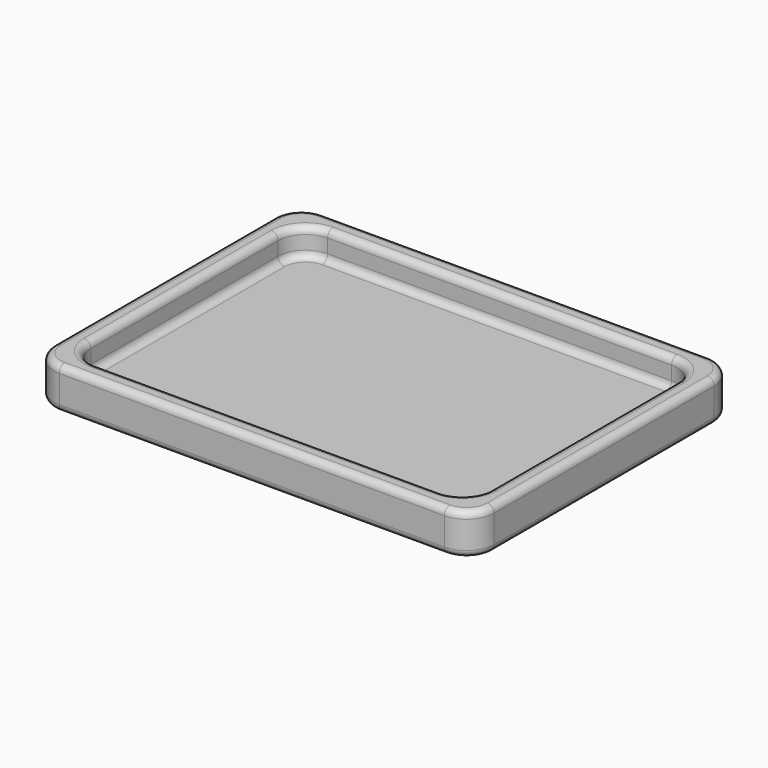
from build123d import *

# Parameters (mm, degrees)
F1_DEPTH = 9.525
F3_DEPTH = 6.35
F4_R     = 1.5875
F5_R     = 1.5875


with BuildPart() as f1:
    # F0 (on Top) → F1 (new body)
    with BuildSketch(Plane.XY):
        with BuildLine():
            ThreePointArc((0, 6.35), (1.8598719395, 1.8598719395), (6.35, 0))
            Line((6.35, 0), (95.25, 0))
            ThreePointArc((95.25, 0), (99.7401280605, 1.8598719395), (101.6, 6.35))
            Line((101.6, 6.35), (101.6, 69.85))
            ThreePointArc((101.6, 69.85), (99.7401280605, 74.3401280605), (95.25, 76.2))
            Line((95.25, 76.2), (6.35, 76.2))
            ThreePointArc((6.35, 76.2), (1.8598719395, 74.3401280605), (0, 69.85))
            Line((0, 69.85), (0, 6.35))
        make_face()
    extrude(amount=F1_DEPTH)

    # F2 (on face) → F3 (cut)
    with BuildSketch(Plane.XY.offset(9.525)):
        with BuildLine():
            ThreePointArc((96.8375, 65.0875), (94.9776280605, 69.5776280605), (90.4875, 71.4375))
            Line((90.4875, 71.4375), (11.1125, 71.4375))
            ThreePointArc((11.1125, 71.4375), (6.6223719395, 69.5776280605), (4.7625, 65.0875))
            Line((4.7625, 65.0875), (4.7625, 11.1125))
            ThreePointArc((4.7625, 11.1125), (6.6223719395, 6.6223719395), (11.1125, 4.7625))
            Line((11.1125, 4.7625), (90.4875, 4.7625))
            ThreePointArc((90.4875, 4.7625), (94.9776280605, 6.6223719395), (96.8375, 11.1125))
            Line((96.8375, 11.1125), (96.8375, 65.0875))
        make_face()
    extrude(amount=-F3_DEPTH, mode=Mode.SUBTRACT)

    # F4
    f4_edges = [f1.edges().sort_by_distance(p)[0] for p in [
        (0, 38.1, 9.525),
        (1.859872, 74.340128, 9.525),
        (1.859872, 1.859872, 9.525),
        (50.8, 76.2, 9.525),
        (50.8, 0, 9.525),
        (99.740128, 74.340128, 9.525),
        (99.740128, 1.859872, 9.525),
        (101.6, 38.1, 9.525),
        (94.977628, 6.622372, 9.525),
        (96.8375, 38.1, 9.525),
        (94.977628, 69.577628, 9.525),
        (50.8, 71.4375, 9.525),
        (6.622372, 69.577628, 9.525),
        (4.7625, 38.1, 9.525),
        (6.622372, 6.622372, 9.525),
        (50.8, 4.7625, 9.525),
        (0, 38.1, 0),
        (1.859872, 1.859872, 0),
        (50.8, 0, 0),
        (99.740128, 1.859872, 0),
        (101.6, 38.1, 0),
        (99.740128, 74.340128, 0),
        (50.8, 76.2, 0),
        (1.859872, 74.340128, 0),
    ]]
    fillet(f4_edges, radius=F4_R)

    # F5
    f5_edges = [f1.edges().sort_by_distance(p)[0] for p in [
        (94.977628, 6.622372, 3.175),
        (96.8375, 38.1, 3.175),
        (94.977628, 69.577628, 3.175),
        (50.8, 71.4375, 3.175),
        (6.622372, 69.577628, 3.175),
        (4.7625, 38.1, 3.175),
        (6.622372, 6.622372, 3.175),
        (50.8, 4.7625, 3.175),
    ]]
    fillet(f5_edges, radius=F5_R)


solid = f1.part
